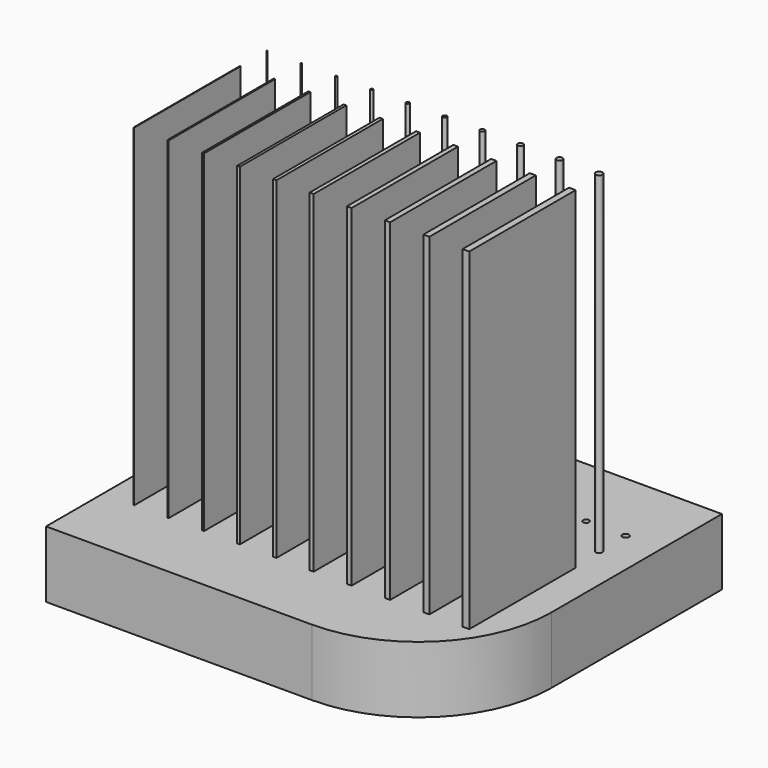
from build123d import *

# Parameters (mm, degrees)
F0_W     = 0.1
F0_H     = 20.0163984491
F0_W_2   = 0.2
F0_H_2   = 20
F0_W_3   = 0.3
F0_W_4   = 0.4
F0_W_5   = 0.5
F0_W_6   = 0.6
F0_W_7   = 0.7
F0_W_8   = 0.8
F0_W_9   = 0.9
F0_W_10  = 1
F0_R     = 0.05
F0_R_2   = 0.1
F0_R_3   = 0.15
F0_R_4   = 0.2
F0_R_5   = 0.25
F0_R_6   = 0.3
F0_R_7   = 0.35
F0_R_8   = 0.4
F0_R_9   = 0.45
F0_R_10  = 0.5
F1_DEPTH = 10
F2_W     = 1
F2_H     = 20
F2_W_2   = 0.2
F2_W_3   = 0.5
F2_W_4   = 0.9
F2_W_5   = 0.7
F2_W_6   = 0.8
F2_W_7   = 0.6
F2_R     = 0.35
F2_R_2   = 0.2
F2_R_3   = 0.15
F2_R_4   = 0.1
F2_W_8   = 0.3
F2_R_5   = 0.3
F2_R_6   = 0.4
F2_R_7   = 0.05
F2_R_8   = 0.45
F2_R_9   = 0.5
F2_R_10  = 0.25
F2_W_9   = 0.4
F2_W_10  = 0.1
F2_H_2   = 20.0163984491
F3_DEPTH = 50


with BuildPart() as f1:
    # F0 (on Top) → F1 (new body)
    with BuildSketch(Plane.XY):
        with BuildLine():
            Line((30, 29.7358127656), (-10, 29.7358127656))
            ThreePointArc((-10, 29.7358127656), (-24.1421356237, 23.8779483894), (-30, 9.7358127656))
            Line((-30, 9.7358127656), (-30, -22.3076807681))
            Line((-30, -22.3076807681), (10, -22.3076807681))
            ThreePointArc((10, -22.3076807681), (24.1421356237, -16.4498163918), (30, -2.3076807681))
            Line((30, -2.3076807681), (30, 29.7358127656))
        make_face()
        with Locations((-25.3179286689, -1.6637592667)):
            Rectangle(F0_W, F0_H, mode=Mode.SUBTRACT)
        with Locations((-20.1679286689, -1.6719584912)):
            Rectangle(F0_W_2, F0_H_2, mode=Mode.SUBTRACT)
        with Locations((-14.9179286689, -1.6719584912)):
            Rectangle(F0_W_3, F0_H_2, mode=Mode.SUBTRACT)
        with Locations((-9.5679286689, -1.6719584912)):
            Rectangle(F0_W_4, F0_H_2, mode=Mode.SUBTRACT)
        with Locations((-4.1179286689, -1.6719584912)):
            Rectangle(F0_W_5, F0_H_2, mode=Mode.SUBTRACT)
        with Locations((1.4320713311, -1.6719584912)):
            Rectangle(F0_W_6, F0_H_2, mode=Mode.SUBTRACT)
        with Locations((7.0820713311, -1.6719584912)):
            Rectangle(F0_W_7, F0_H_2, mode=Mode.SUBTRACT)
        with Locations((12.8320713311, -1.6719584912)):
            Rectangle(F0_W_8, F0_H_2, mode=Mode.SUBTRACT)
        with Locations((18.6820713311, -1.6719584912)):
            Rectangle(F0_W_9, F0_H_2, mode=Mode.SUBTRACT)
        with Locations((24.6320713311, -1.6719584912)):
            Rectangle(F0_W_10, F0_H_2, mode=Mode.SUBTRACT)
        with Locations((-25.3179286689, 13.3444399579)):
            Circle(F0_R, mode=Mode.SUBTRACT)
        with Locations((-20.1679286689, 13.3444399579)):
            Circle(F0_R_2, mode=Mode.SUBTRACT)
        with Locations((-14.9179286689, 13.3444399579)):
            Circle(F0_R_3, mode=Mode.SUBTRACT)
        with Locations((-9.5679286689, 13.3444399579)):
            Circle(F0_R_4, mode=Mode.SUBTRACT)
        with Locations((-4.1179286689, 13.3444399579)):
            Circle(F0_R_5, mode=Mode.SUBTRACT)
        with Locations((-25.2921710323, 18.3443736119)):
            Circle(F0_R, mode=Mode.SUBTRACT)
        with Locations((-20.1679286689, 18.3443736119)):
            Circle(F0_R_2, mode=Mode.SUBTRACT)
        with Locations((-14.9179286689, 18.3443736119)):
            Circle(F0_R_3, mode=Mode.SUBTRACT)
        with Locations((-9.5679286689, 18.3443736119)):
            Circle(F0_R_4, mode=Mode.SUBTRACT)
        with Locations((-4.1179286689, 18.3443736119)):
            Circle(F0_R_5, mode=Mode.SUBTRACT)
        with Locations((1.4320713311, 13.3444399579)):
            Circle(F0_R_6, mode=Mode.SUBTRACT)
        with Locations((7.0820713311, 13.3444399579)):
            Circle(F0_R_7, mode=Mode.SUBTRACT)
        with Locations((12.8320713311, 13.3444399579)):
            Circle(F0_R_8, mode=Mode.SUBTRACT)
        with Locations((18.6820713311, 13.3444399579)):
            Circle(F0_R_9, mode=Mode.SUBTRACT)
        with Locations((24.6320713311, 13.3444399579)):
            Circle(F0_R_10, mode=Mode.SUBTRACT)
        with Locations((1.4320713311, 18.3443736119)):
            Circle(F0_R_6, mode=Mode.SUBTRACT)
        with Locations((7.0820713311, 18.3443736119)):
            Circle(F0_R_7, mode=Mode.SUBTRACT)
        with Locations((12.8320713311, 18.3443736119)):
            Circle(F0_R_8, mode=Mode.SUBTRACT)
        with Locations((18.6820713311, 18.3443736119)):
            Circle(F0_R_9, mode=Mode.SUBTRACT)
        with Locations((24.6320713311, 18.3443736119)):
            Circle(F0_R_10, mode=Mode.SUBTRACT)
        with Locations((24.6320713311, -1.6719584912)):
            Rectangle(F0_W_10, F0_H_2)
        with Locations((18.6820713311, -1.6719584912)):
            Rectangle(F0_W_9, F0_H_2)
        with Locations((12.8320713311, -1.6719584912)):
            Rectangle(F0_W_8, F0_H_2)
        with Locations((7.0820713311, -1.6719584912)):
            Rectangle(F0_W_7, F0_H_2)
        with Locations((1.4320713311, -1.6719584912)):
            Rectangle(F0_W_6, F0_H_2)
        with Locations((-4.1179286689, -1.6719584912)):
            Rectangle(F0_W_5, F0_H_2)
        with Locations((-9.5679286689, -1.6719584912)):
            Rectangle(F0_W_4, F0_H_2)
        with Locations((-14.9179286689, -1.6719584912)):
            Rectangle(F0_W_3, F0_H_2)
        with Locations((-20.1679286689, -1.6719584912)):
            Rectangle(F0_W_2, F0_H_2)
        with Locations((-25.3179286689, -1.6637592667)):
            Rectangle(F0_W, F0_H)
        with Locations((24.6320713311, 13.3444399579)):
            Circle(F0_R_10)
        with Locations((18.6820713311, 13.3444399579)):
            Circle(F0_R_9)
        with Locations((12.8320713311, 13.3444399579)):
            Circle(F0_R_8)
        with Locations((7.0820713311, 13.3444399579)):
            Circle(F0_R_7)
        with Locations((1.4320713311, 13.3444399579)):
            Circle(F0_R_6)
        with Locations((-4.1179286689, 13.3444399579)):
            Circle(F0_R_5)
        with Locations((-9.5679286689, 13.3444399579)):
            Circle(F0_R_4)
        with Locations((-14.9179286689, 13.3444399579)):
            Circle(F0_R_3)
        with Locations((-20.1679286689, 13.3444399579)):
            Circle(F0_R_2)
        with Locations((-25.3179286689, 13.3444399579)):
            Circle(F0_R)
    extrude(amount=F1_DEPTH)

    # F2 (on face) → F3 (join)
    with BuildSketch(Plane.XY.offset(10)):
        with Locations((24.6320713311, -1.6719584912)):
            Rectangle(F2_W, F2_H)
        with Locations((-20.1679286689, -1.6719584912)):
            Rectangle(F2_W_2, F2_H)
        with Locations((-4.1179286689, -1.6719584912)):
            Rectangle(F2_W_3, F2_H)
        with Locations((18.6820713311, -1.6719584912)):
            Rectangle(F2_W_4, F2_H)
        with Locations((7.0820713311, -1.6719584912)):
            Rectangle(F2_W_5, F2_H)
        with Locations((12.8320713311, -1.6719584912)):
            Rectangle(F2_W_6, F2_H)
        with Locations((1.4320713311, -1.6719584912)):
            Rectangle(F2_W_7, F2_H)
        with Locations((7.0820713311, 13.3444399579)):
            Circle(F2_R)
        with Locations((-9.5679286689, 13.3444399579)):
            Circle(F2_R_2)
        with Locations((-14.9179286689, 13.3444399579)):
            Circle(F2_R_3)
        with Locations((-20.1679286689, 13.3444399579)):
            Circle(F2_R_4)
        with Locations((-14.9179286689, -1.6719584912)):
            Rectangle(F2_W_8, F2_H)
        with Locations((1.4320713311, 13.3444399579)):
            Circle(F2_R_5)
        with Locations((12.8320713311, 13.3444399579)):
            Circle(F2_R_6)
        with Locations((-25.3179286689, 13.3444399579)):
            Circle(F2_R_7)
        with Locations((18.6820713311, 13.3444399579)):
            Circle(F2_R_8)
        with Locations((24.6320713311, 13.3444399579)):
            Circle(F2_R_9)
        with Locations((-4.1179286689, 13.3444399579)):
            Circle(F2_R_10)
        with Locations((-9.5679286689, -1.6719584912)):
            Rectangle(F2_W_9, F2_H)
        with Locations((-25.3179286689, -1.6637592667)):
            Rectangle(F2_W_10, F2_H_2)
    extrude(amount=F3_DEPTH)


solid = f1.part
